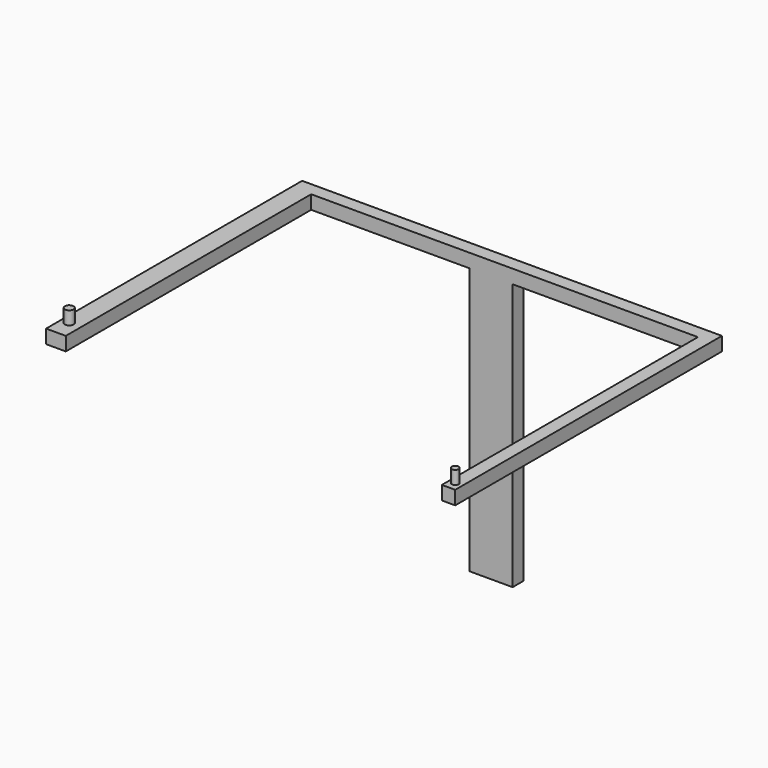
from build123d import *

# Parameters (mm, degrees)
F0_W      = 37.547688
F0_H      = 26.145774
F1_DEPTH  = 609.6
F2_W      = 25.4
F2_H      = 26.145774
F3_DEPTH  = 762
F4_W      = 25.4
F4_H      = 26.145774
F5_DEPTH  = 609.6
F6_W      = 82.078397
F6_H      = 25.4
F7_DEPTH  = 508
F8_R      = 8.291485
F9_DEPTH  = 25.4
F10_R     = 6.534669
F11_DEPTH = 25.4


with BuildPart() as f1:
    # F0 (on Front) → F1 (new body)
    with BuildSketch(Plane.XZ):
        Rectangle(F0_W, F0_H)
    extrude(amount=-F1_DEPTH)

    # F2 (on face) → F3 (join)
    with BuildSketch(Plane.YZ.offset(18.773844)):
        with Locations((596.9, 0)):
            Rectangle(F2_W, F2_H)
    extrude(amount=F3_DEPTH)

    # F4 (on face) → F5 (join)
    with BuildSketch(Plane.XZ.offset(-584.2)):
        with Locations((768.073844, 0)):
            Rectangle(F4_W, F4_H)
    extrude(amount=F5_DEPTH)

    # F6 (on face) → F7 (join)
    with BuildSketch(Plane(origin=(0, 0, -13.072887), x_dir=(1, 0, 0), z_dir=(0, 0, -1))):
        with Locations((361.406744, -596.9)):
            Rectangle(F6_W, F6_H)
    extrude(amount=F7_DEPTH)

    # F8 (on face) → F9 (join)
    with BuildSketch(Plane.XY.offset(13.072887)):
        with Locations((-3.264897, 35.729956)):
            Circle(F8_R)
    extrude(amount=F9_DEPTH)

    # F10 (on face) → F11 (join)
    with BuildSketch(Plane.XY.offset(13.072887)):
        with Locations((767.283738, -8.2256)):
            Circle(F10_R)
    extrude(amount=F11_DEPTH)


solid = f1.part
